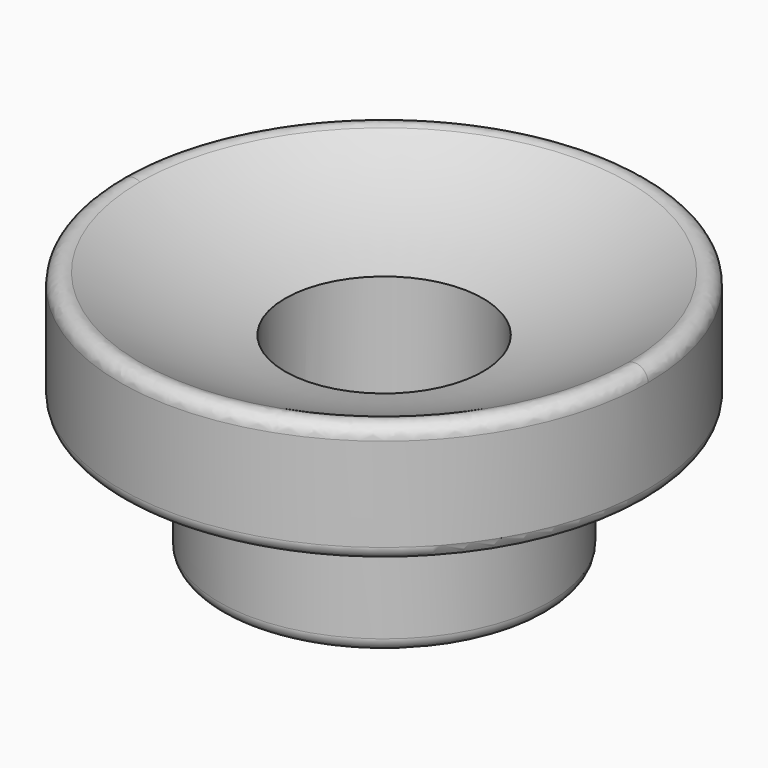
from build123d import *

# Parameters (mm, degrees)
F0_R      = 20
F1_DEPTH  = 10
F4_R      = 12.5
F5_DEPTH  = 10
F6_R      = 1
F8_D      = 15
F10_D     = 3.2
F10_DEPTH = 20.0010001


with BuildPart() as f1:
    # F0 (on Top) → F1 (new body)
    with BuildSketch(Plane.XY):
        Circle(F0_R)
    extrude(amount=-F1_DEPTH)

    # F2 (on Front) → F3 (revolve, cut)
    with BuildSketch(Plane.XZ):
        with BuildLine():
            Line((0, -6), (0, 68))
            ThreePointArc((0, 68), (-37, 31), (0, -6))
        make_face()
    revolve(axis=Axis((0, 0, 31), (0, 0, -1)), mode=Mode.SUBTRACT)

    # F4 (on face) → F5 (join)
    with BuildSketch(Plane(origin=(0, 0, -10), x_dir=(1, 0, 0), z_dir=(0, 0, -1))):
        Circle(F4_R)
    extrude(amount=F5_DEPTH)

    # F6
    f6_edges = [f1.edges().sort_by_distance(p)[0] for p in [
        (0, 20, -0.128765),
        (0, -20, -0.128765),
        (-20, 0, -10),
        (-12.5, 0, -20),
    ]]
    fillet(f6_edges, radius=F6_R)

    # F8 (through all)
    with Locations(Plane(origin=(0, 0, -20), x_dir=(1, 0, 0), z_dir=(0, 0, -1))):
        with Locations((0, 0)):
            Hole(F8_D / 2)

    # F10 (through all, one way)
    with BuildSketch(Plane.YZ):
        with Locations((0, -15)):
            Circle(F10_D / 2)
    extrude(amount=-F10_DEPTH, mode=Mode.SUBTRACT)


solid = f1.part
